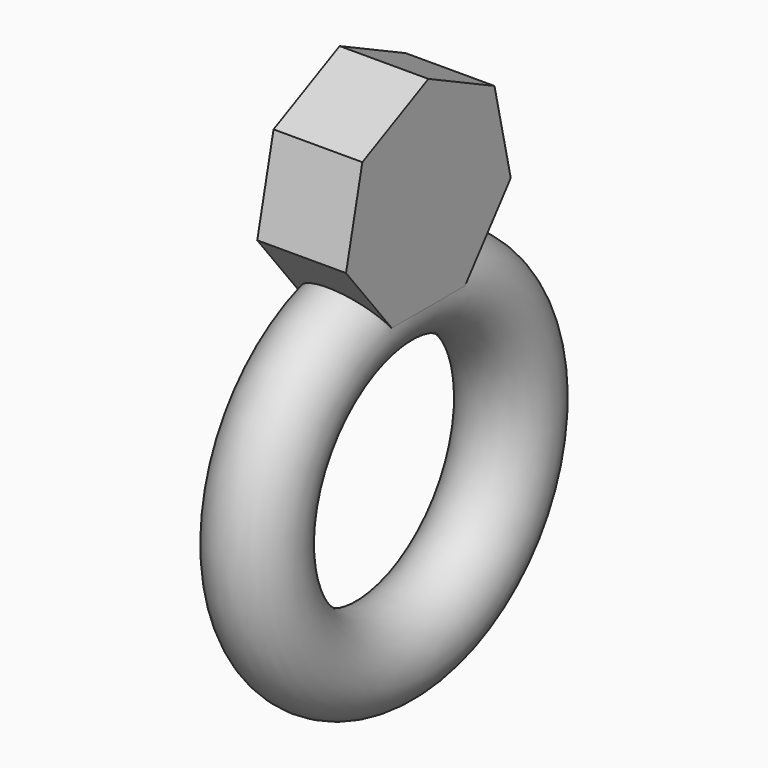
from build123d import *

# Parameters (mm, degrees)
F0_R     = 3.5
F3_DEPTH = 3.5


with BuildPart() as f1:
    # F0 (on Front) → F1 (revolve)
    with BuildSketch(Plane.XZ):
        with Locations((0, 12.5)):
            Circle(F0_R)
    revolve(axis=Axis((11.219262, 0, 0), (1, 0, 0)))

    # F2 (on Right) → F3 (join, symmetric)
    with BuildSketch(Plane.YZ):
        Polygon((3.61181, 12.5), (8.115663, 18.147653), (6.508256, 25.190161), (0, 28.324372), (-6.508256, 25.190161), (-8.115663, 18.147653), (-3.61181, 12.5), align=None)
    extrude(amount=F3_DEPTH, both=True)


solid = f1.part
